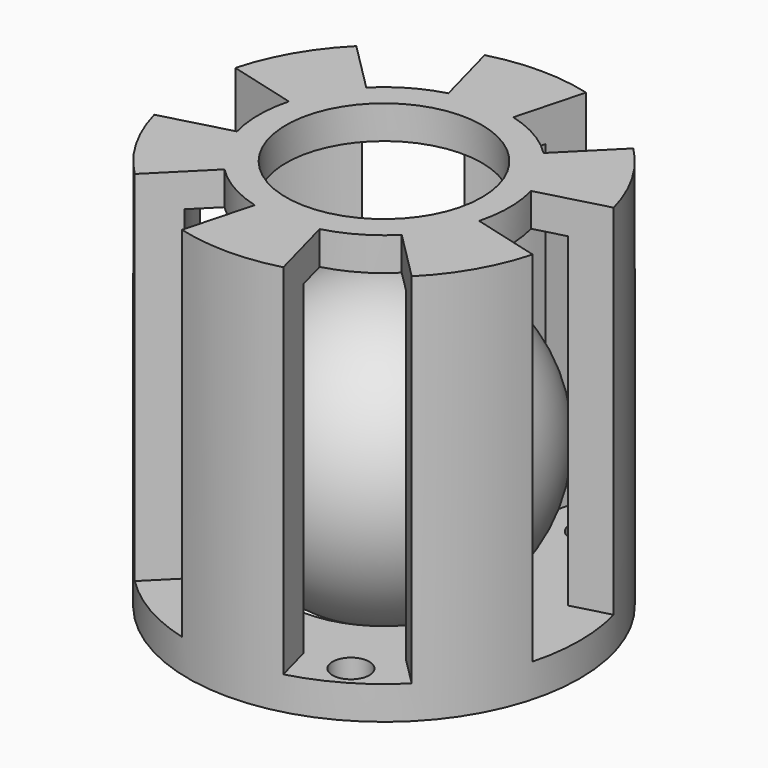
from build123d import *

# Parameters (mm, degrees)
F0_R          = 25.4
F1_DEPTH      = 25.4
F2_R          = 12.7
F3_DEPTH      = 25.401
F3_DEPTH_BACK = 25.401
F4_R          = 20.32
F5_DEPTH      = 21.082
F6_R          = 2.3876
F7_DEPTH      = 25.401
F7_DEPTH_BACK = 25.401
F9_DEPTH      = 25.401
F9_DEPTH_BACK = 21.082


with BuildPart() as f1:
    # F0 (on Top) → F1 (new body, symmetric)
    with BuildSketch(Plane.XY):
        Circle(F0_R)
    extrude(amount=F1_DEPTH, both=True)

    # F2 (on Top) → F3 (cut, two sides)
    with BuildSketch(Plane.XY) as f3_sk:
        Circle(F2_R)
    extrude(amount=-F3_DEPTH, mode=Mode.SUBTRACT)
    extrude(f3_sk.sketch, amount=F3_DEPTH_BACK, mode=Mode.SUBTRACT)

    # F4 (on Top) → F5 (cut, symmetric)
    with BuildSketch(Plane.XY):
        Circle(F4_R)
    extrude(amount=F5_DEPTH, both=True, mode=Mode.SUBTRACT)

    # F6 (on Top) → F7 (cut, two sides)
    with BuildSketch(Plane.XY) as f7_sk:
        with Locations((-22.225, 0)):
            Circle(F6_R)
        with Locations((11.1125, 19.2474145991)):
            Circle(F6_R)
        with Locations((11.1125, -19.2474145991)):
            Circle(F6_R)
    extrude(amount=-F7_DEPTH, mode=Mode.SUBTRACT)
    extrude(f7_sk.sketch, amount=F7_DEPTH_BACK, mode=Mode.SUBTRACT)

    # F8 (on Top) → F9 (cut, two sides)
    with BuildSketch(Plane.XY) as f9_sk:
        with BuildLine():
            Line((-15.7020902322, 4.2073623972), (-24.5345159877, 6.5740037456))
            ThreePointArc((-24.5345159877, 6.5740037456), (-25.4, 0), (-24.5345159877, -6.5740037456))
            Line((-24.5345159877, -6.5740037456), (-15.7020902322, -4.2073623972))
            ThreePointArc((-15.7020902322, -4.2073623972), (-16.256, 0), (-15.7020902322, 4.2073623972))
        make_face()
        with BuildLine():
            ThreePointArc((-6.5740037456, 24.5345159877), (-12.7, 21.9970452561), (-17.9605122421, 17.9605122421))
            Line((-17.9605122421, 17.9605122421), (-11.494727835, 11.494727835))
            ThreePointArc((-11.494727835, 11.494727835), (-8.128, 14.0781089639), (-4.2073623972, 15.7020902322))
            Line((-4.2073623972, 15.7020902322), (-6.5740037456, 24.5345159877))
        make_face()
        with BuildLine():
            Line((-11.494727835, -11.494727835), (-17.9605122421, -17.9605122421))
            ThreePointArc((-17.9605122421, -17.9605122421), (-12.7, -21.9970452561), (-6.5740037456, -24.5345159877))
            Line((-6.5740037456, -24.5345159877), (-4.2073623972, -15.7020902322))
            ThreePointArc((-4.2073623972, -15.7020902322), (-8.128, -14.0781089639), (-11.494727835, -11.494727835))
        make_face()
        with BuildLine():
            Line((11.494727835, 11.494727835), (17.9605122421, 17.9605122421))
            ThreePointArc((17.9605122421, 17.9605122421), (12.7, 21.9970452561), (6.5740037456, 24.5345159877))
            Line((6.5740037456, 24.5345159877), (4.2073623972, 15.7020902322))
            ThreePointArc((4.2073623972, 15.7020902322), (8.128, 14.0781089639), (11.494727835, 11.494727835))
        make_face()
        with BuildLine():
            ThreePointArc((24.5345159877, -6.5740037456), (25.4, 0), (24.5345159877, 6.5740037456))
            Line((24.5345159877, 6.5740037456), (15.7020902322, 4.2073623972))
            ThreePointArc((15.7020902322, 4.2073623972), (16.256, 0), (15.7020902322, -4.2073623972))
            Line((15.7020902322, -4.2073623972), (24.5345159877, -6.5740037456))
        make_face()
        with BuildLine():
            Line((17.9605122421, -17.9605122421), (11.494727835, -11.494727835))
            ThreePointArc((11.494727835, -11.494727835), (8.128, -14.0781089639), (4.2073623972, -15.7020902322))
            Line((4.2073623972, -15.7020902322), (6.5740037456, -24.5345159877))
            ThreePointArc((6.5740037456, -24.5345159877), (12.7, -21.9970452561), (17.9605122421, -17.9605122421))
        make_face()
    extrude(amount=F9_DEPTH, mode=Mode.SUBTRACT)
    extrude(f9_sk.sketch, amount=-F9_DEPTH_BACK, mode=Mode.SUBTRACT)


with BuildPart() as f11:
    # F10 (on Front) → F11 (revolve)
    with BuildSketch(Plane.XZ):
        with BuildLine():
            ThreePointArc((0, -25.4), (19.05, -6.35), (0, 12.7))
            Line((0, 12.7), (0, -25.4))
        make_face()
    revolve(axis=Axis((0, 0, -0.1289846554), (0, 0, -1)))


solid = Compound([f1.part, f11.part])
